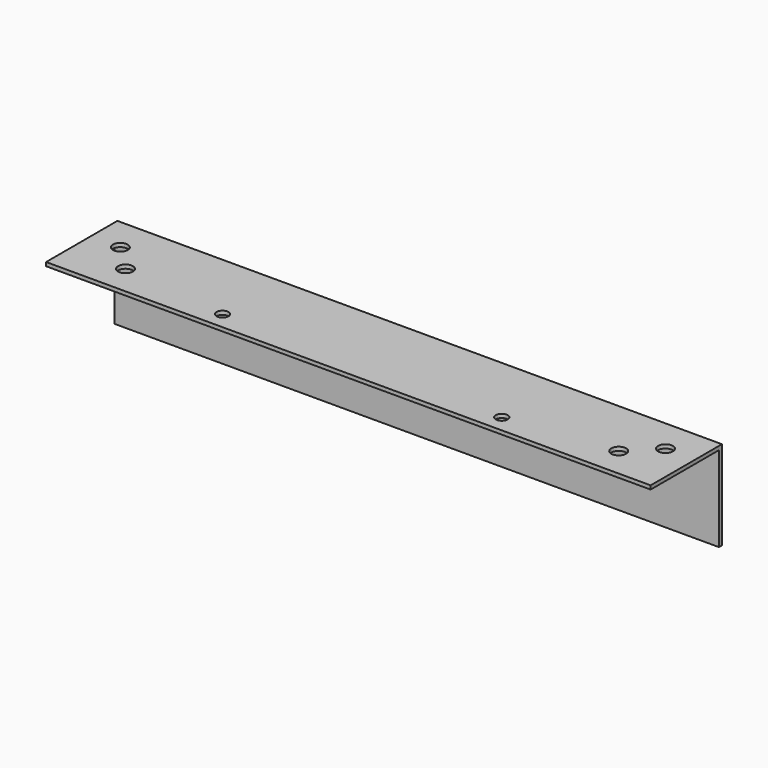
from build123d import *

# Parameters (mm, degrees)
PAD007_DEPTH      = 129.237
PAD007_DEPTH_BACK = 129.237
SKETCH017_R       = 2.54
SKETCH017_R_2     = 3.175
POCKET007_DEPTH   = 1.6002


with BuildPart() as pocket007:
    # Sketch016 → Pad007 (new body, two sides)
    with BuildSketch(Plane(origin=(0, -90.5002, -38.1), x_dir=(0, 1, 0), z_dir=(1, 0, 0))) as pad007_sk:
        Polygon((0, 0), (38.1, 0), (38.1, -1.6002), (1.6002, -1.6002), (1.6002, -38.1), (0, -38.1), align=None)
    extrude(amount=PAD007_DEPTH)
    extrude(pad007_sk.sketch, amount=-PAD007_DEPTH_BACK)

    # Sketch017 → Pocket007 (cut)
    with BuildSketch(Plane(origin=(0, -90.5002, -39.7002), x_dir=(0, 1, 0), z_dir=(0, 0, -1))):
        with Locations((30.734, 59.69)):
            Circle(SKETCH017_R)
        with Locations((30.734, -59.69)):
            Circle(SKETCH017_R)
        with Locations((25.4, -105.4372)):
            Circle(SKETCH017_R_2)
        with Locations((14.3002, -116.537)):
            Circle(SKETCH017_R_2)
        with Locations((14.3002, 116.537)):
            Circle(SKETCH017_R_2)
        with Locations((25.4, 105.4372)):
            Circle(SKETCH017_R_2)
    extrude(amount=-POCKET007_DEPTH, mode=Mode.SUBTRACT)


with BuildPart() as part_mirroring005:
    # Part__Mirroring005: instance of Pocket007
    add(pocket007.part.mirror(Plane(origin=(0, 0, 0), x_dir=(1, 0, 0), z_dir=(0, 1, 0))))


solid = part_mirroring005.part
